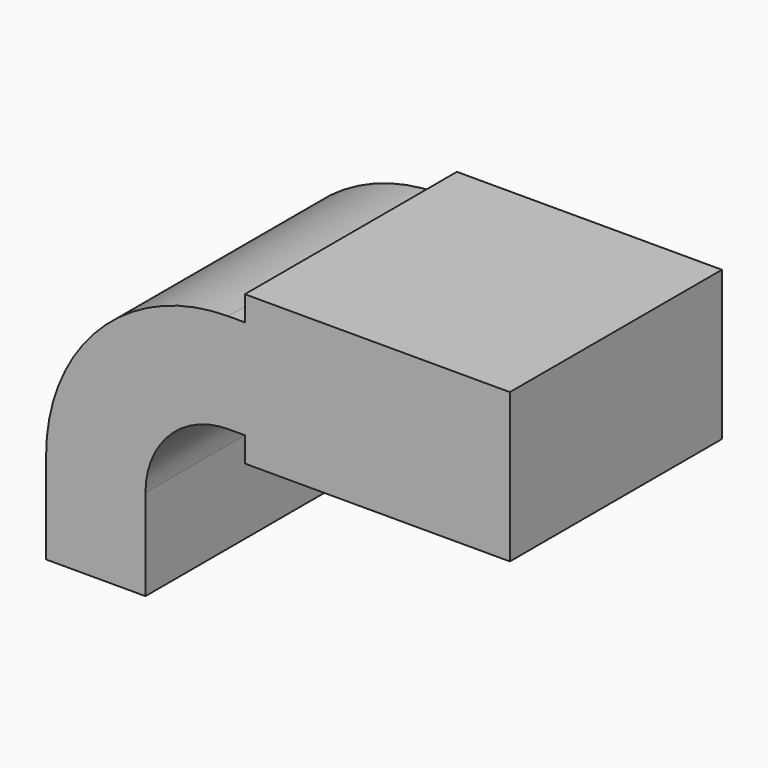
from build123d import *

# Parameters (mm, degrees)
F0_W     = 25.4
F0_H     = 19.05
F0_H_2   = 4.7498
F0_H_3   = 4.7752
F1_DEPTH = 25.4


with BuildPart() as f1:
    # F0 (on Front) → F1 (new body, symmetric)
    with BuildSketch(Plane.XZ):
        Polygon((85.725, 66.675), (85.725, 61.9252), (85.725, 42.8752), (85.725, 38.1), (111.125, 38.1), (111.125, 66.675), align=None)
        with Locations((73.025, 52.4002)):
            Rectangle(F0_W, F0_H)
        with Locations((73.025, 64.3001)):
            Rectangle(F0_W, F0_H_2)
        with Locations((73.025, 40.4876)):
            Rectangle(F0_W, F0_H_3)
        with BuildLine():
            Line((22.225, 27.0002), (22.225, 9.525))
            Line((22.225, 9.525), (41.275, 9.525))
            Line((41.275, 9.525), (41.275, 27.0002))
            ThreePointArc((41.275, 27.0002), (45.9246798487, 38.2255201513), (57.15, 42.8752))
            Line((57.15, 42.8752), (60.325, 42.8752))
            Line((60.325, 42.8752), (60.325, 61.9252))
            Line((60.325, 61.9252), (57.15, 61.9252))
            ThreePointArc((57.15, 61.9252), (32.4542956671, 51.6959043329), (22.225, 27.0002))
        make_face()
    extrude(amount=F1_DEPTH, both=True)


solid = f1.part
